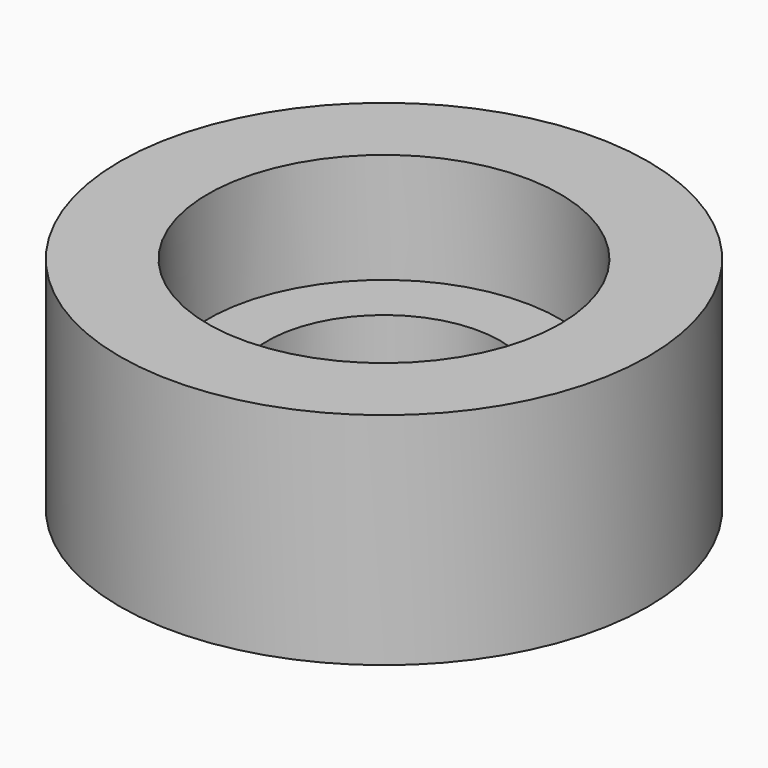
from build123d import *

# Parameters (mm, degrees)
F0_R     = 6
F0_R_2   = 2.65
F1_DEPTH = 5
F2_R     = 2.65
F3_DEPTH = 25
F4_R     = 4
F4_R_2   = 2.65
F5_DEPTH = 2.5


with BuildPart() as f1:
    # F0 (on Top) → F1 (new body)
    with BuildSketch(Plane.XY):
        Circle(F0_R)
        Circle(F0_R_2, mode=Mode.SUBTRACT)
        Circle(F0_R_2)
    extrude(amount=F1_DEPTH)

    # F2 (on face) → F3 (cut)
    with BuildSketch(Plane(origin=(0, 0, 0), x_dir=(1, 0, 0), z_dir=(0, 0, -1))):
        Circle(F2_R)
    extrude(amount=-F3_DEPTH, mode=Mode.SUBTRACT)

    # F4 (on face) → F5 (cut)
    with BuildSketch(Plane.XY.offset(5)):
        Circle(F4_R)
        Circle(F4_R_2, mode=Mode.SUBTRACT)
    extrude(amount=-F5_DEPTH, mode=Mode.SUBTRACT)


solid = f1.part
